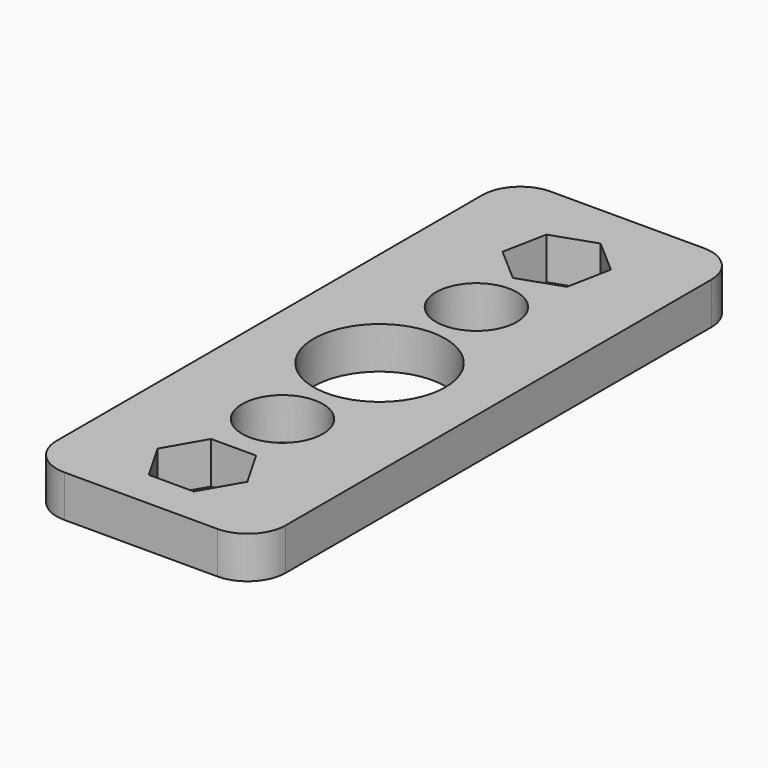
from build123d import *

# Parameters (mm, degrees)
F0_R     = 6.75
F0_R_2   = 11
F1_DEPTH = 7


with BuildPart() as f1:
    # F0 (on Top) → F1 (new body)
    with BuildSketch(Plane.XY):
        with BuildLine():
            Line((12.750323, 51.767008), (-12.814607, 51.767008))
            ThreePointArc((-12.814607, 51.767008), (-17.304735, 49.907136), (-19.164607, 45.417008))
            Line((-19.164607, 45.417008), (-19.164607, -43.482992))
            ThreePointArc((-19.164607, -43.482992), (-17.304735, -47.97312), (-12.814607, -49.832992))
            Line((-12.814607, -49.832992), (12.750323, -49.832992))
            ThreePointArc((12.750323, -49.832992), (17.240451, -47.97312), (19.100323, -43.482992))
            Line((19.100323, -43.482992), (19.100323, 45.417008))
            ThreePointArc((19.100323, 45.417008), (17.240451, 49.907136), (12.750323, 51.767008))
        make_face()
        Polygon((7.505553, -37), (3.752777, -43.5), (-3.752777, -43.5), (-7.505553, -37), (-3.752777, -30.5), (3.752777, -30.5), align=None, mode=Mode.SUBTRACT)
        with Locations((0, -20.269467)):
            Circle(F0_R, mode=Mode.SUBTRACT)
        Circle(F0_R_2, mode=Mode.SUBTRACT)
        with Locations((0, 20.228889)):
            Circle(F0_R, mode=Mode.SUBTRACT)
        Polygon((1.442276, 44.365675), (7.1, 39.43379), (5.657724, 32.068115), (-1.442276, 29.634325), (-7.1, 34.56621), (-5.657724, 41.931885), align=None, mode=Mode.SUBTRACT)
    extrude(amount=F1_DEPTH)


solid = f1.part
